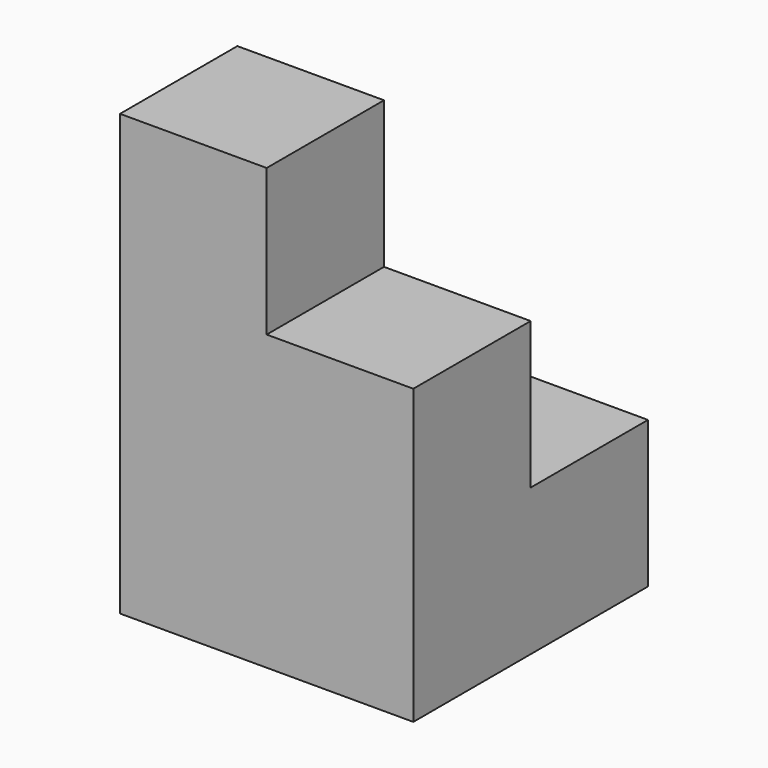
from build123d import *

# Parameters (mm, degrees)
F1_DEPTH = 12.7
F2_W     = 12.7
F2_H     = 12.7
F3_DEPTH = 12.7


with BuildPart() as f1:
    # F0 (on Front) → F1 (new body)
    with BuildSketch(Plane.XZ):
        Polygon((0, 38.1), (0, 0), (25.4, 0), (25.4, 25.4), (12.7, 25.4), (12.7, 38.1), align=None)
    extrude(amount=F1_DEPTH)

    # F2 (on face) → F3 (join)
    with BuildSketch(Plane(origin=(0, 0, 0), x_dir=(-1, 0, 0), z_dir=(0, 1, 0))):
        with Locations((-19.05, 6.35)):
            Rectangle(F2_W, F2_H)
    extrude(amount=F3_DEPTH)


solid = f1.part
